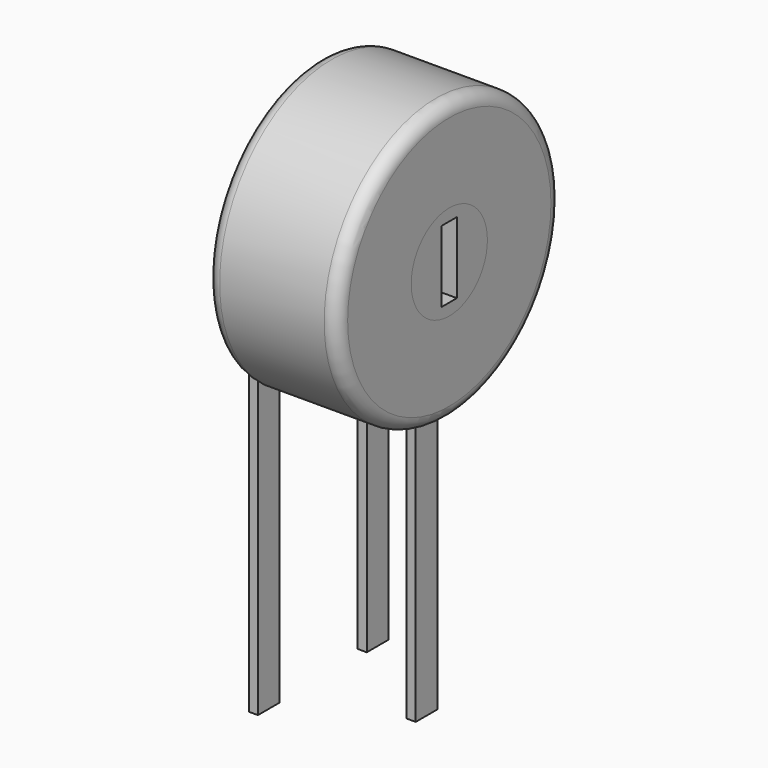
from build123d import *

# Parameters (mm, degrees)
SKETCH001_R       = 1.75
SKETCH001_W       = 0.7
SKETCH001_H       = 2.625
PAD001_DEPTH      = 4.8
SKETCH_R          = 5.15
SKETCH_R_2        = 1.75
PAD_DEPTH         = 4.8
FILLET_R          = 0.48
SKETCH003_W       = 0.333334
SKETCH003_H       = 1
PAD002_DEPTH      = 9.616667
PAD002_DEPTH_BACK = 3


with BuildPart() as pad001:
    # Sketch001 → Pad001 (new body)
    with BuildSketch(Plane.YZ):
        with Locations((-2.5, 11.95)):
            Circle(SKETCH001_R)
        with Locations((-2.5, 11.95)):
            Rectangle(SKETCH001_W, SKETCH001_H, mode=Mode.SUBTRACT)
    extrude(amount=PAD001_DEPTH)


with BuildPart() as fillet_body:
    # Sketch → Pad (new body)
    with BuildSketch(Plane.YZ):
        with Locations((-2.5, 11.95)):
            Circle(SKETCH_R)
        with Locations((-2.5, 11.95)):
            Circle(SKETCH_R_2, mode=Mode.SUBTRACT)
    extrude(amount=PAD_DEPTH)

    # Fillet
    fillet_edges = [fillet_body.edges().sort_by_distance(p)[0] for p in [
        (0, -7.65, 11.95),
        (4.8, -7.65, 11.95),
    ]]
    fillet(fillet_edges, radius=FILLET_R)


with BuildPart() as pad002:
    # Sketch003 → Pad002 (new body, two sides)
    with BuildSketch(Plane.XY) as pad002_sk:
        Rectangle(SKETCH003_W, SKETCH003_H)
        with Locations((3.8, -2.5)):
            Rectangle(SKETCH003_W, SKETCH003_H)
        with Locations((0, -5)):
            Rectangle(SKETCH003_W, SKETCH003_H)
    extrude(amount=PAD002_DEPTH)
    extrude(pad002_sk.sketch, amount=-PAD002_DEPTH_BACK)


solid = Compound([pad001.part, fillet_body.part, pad002.part])
